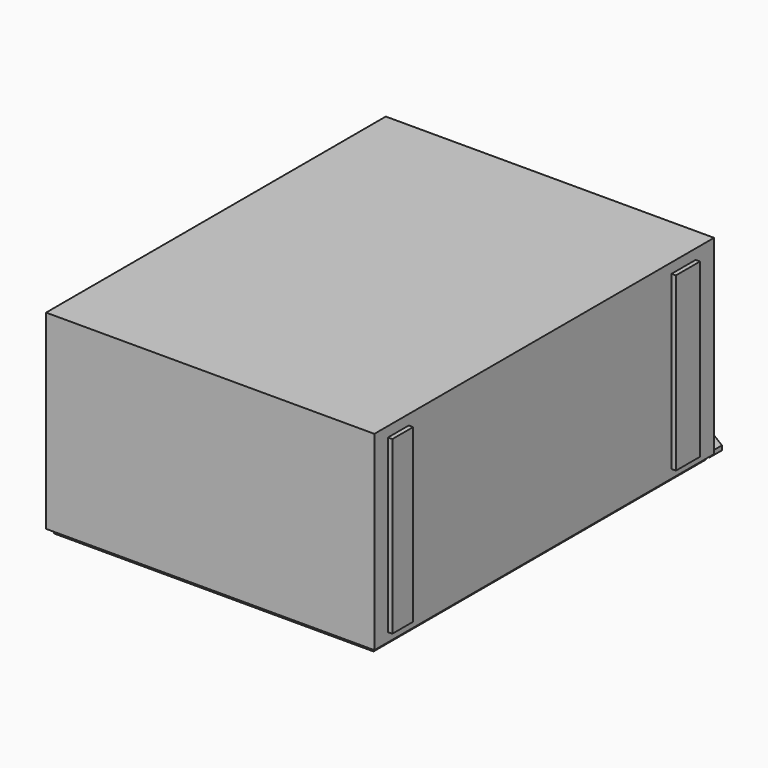
from build123d import *

# Parameters (mm, degrees)
F0_W      = 150
F0_H      = 194
F0_R      = 67.5
F1_DEPTH  = 87
F2_DEPTH  = 5
F3_R      = 2
F4_DEPTH  = 25
F5_W      = 146
F5_H      = 190
F5_R      = 69.5
F6_DEPTH  = 2
F8_R      = 2
F9_DEPTH  = 15
F11_START = -2
F11_DEPTH = 87.001
F13_DEPTH = 25
F14_R     = 2
F15_DEPTH = 3
F18_W     = 11.8853598833
F18_H     = 78.3035373315
F18_W_2   = 13.7497261167
F18_H_2   = 78.5365824122
F19_DEPTH = 2


with BuildPart() as f1:
    # F0 (on Top) → F1 (new body)
    with BuildSketch(Plane.XY):
        Rectangle(F0_W, F0_H)
        with Locations((0, -3.5)):
            Circle(F0_R, mode=Mode.SUBTRACT)
        with Locations((0, -3.5)):
            Circle(F0_R)
    extrude(amount=F1_DEPTH)

    # F0 (on Top) → F2 (cut)
    with BuildSketch(Plane.XY):
        with Locations((0, -3.5)):
            Circle(F0_R)
    extrude(amount=F2_DEPTH, mode=Mode.SUBTRACT)

    # F3 (on face) → F4 (cut)
    with BuildSketch(Plane(origin=(0, 97, 0), x_dir=(-1, 0, 0), z_dir=(0, 1, 0))):
        Polygon((-41, 48), (-65, 48), (-65, 38.0621778265), (-61.5, 32), (-44.5, 32), (-41, 38.0621778265), align=None)
        with Locations((-44, 81)):
            Circle(F3_R)
        with Locations((70, 70)):
            Circle(F3_R)
        with Locations((70, 6)):
            Circle(F3_R)
        with Locations((-68, 6)):
            Circle(F3_R)
    extrude(amount=-F4_DEPTH, mode=Mode.SUBTRACT)

    # F18 (on face) → F19 (join)
    with BuildSketch(Plane.YZ.offset(75)):
        with Locations((-83.3067968488, 43.2401341386)):
            Rectangle(F18_W, F18_H)
        with Locations((79.5925147831, 43.1236115983)):
            Rectangle(F18_W_2, F18_H_2)
    extrude(amount=F19_DEPTH)


with BuildPart() as f6:
    # F5 (on face) → F6 (new body)
    with BuildSketch(Plane(origin=(0, 0, 0), x_dir=(1, 0, 0), z_dir=(0, 0, -1))):
        Rectangle(F5_W, F5_H)
        with Locations((0, 3.5)):
            Circle(F5_R, mode=Mode.SUBTRACT)
    extrude(amount=F6_DEPTH)


with BuildPart() as f9:
    # F8 (on offset) → F9 (new body)
    with BuildSketch(Plane(origin=(0, 0, -2), x_dir=(1, 0, 0), z_dir=(0, 0, -1))):
        Polygon((-55, -97), (-75, -97), (-75, -98.5), (-56.5, -98.5), (-56.5, -112), (-55, -112), align=None)
        Polygon((-56.5, -98.5), (-75, -98.5), (-75, -104), (-62, -112), (-56.5, -112), align=None)
        with Locations((-61, -104.5)):
            Circle(F8_R, mode=Mode.SUBTRACT)
    extrude(amount=-F9_DEPTH)

    # F8 (on offset) → F11 (cut)
    with BuildSketch(Plane(origin=(0, 0, -2), x_dir=(1, 0, 0), z_dir=(0, 0, -1)).offset(F11_START)):
        Polygon((-56.5, -98.5), (-75, -98.5), (-75, -104), (-62, -112), (-56.5, -112), align=None)
        with Locations((-61, -104.5)):
            Circle(F8_R, mode=Mode.SUBTRACT)
    extrude(amount=-F11_DEPTH, mode=Mode.SUBTRACT)

    # F12 (on face) → F13 (cut)
    with BuildSketch(Plane.YZ.offset(-55)):
        Polygon((97, 17.1633157879), (97, 13), (112, 0), (116.2648648024, 0), (116.2648648024, 17.1633157879), align=None)
    extrude(amount=-F13_DEPTH, mode=Mode.SUBTRACT)

    # F14 (on face) → F15 (cut)
    with BuildSketch(Plane(origin=(0, 98.5, 0), x_dir=(-1, 0, 0), z_dir=(0, 1, 0))):
        with Locations((70, 6)):
            Circle(F14_R)
    extrude(amount=-F15_DEPTH, mode=Mode.SUBTRACT)


with BuildPart() as f16_1:
    # F16: instance of F9
    add(f9.part.mirror(Plane.YZ))


with BuildPart() as f16_1_1:
    # F17: moved
    add(f16_1.part.moved(Location((-2, 0, 0))))


solid = Compound([f1.part, f6.part, f9.part, f16_1_1.part])
